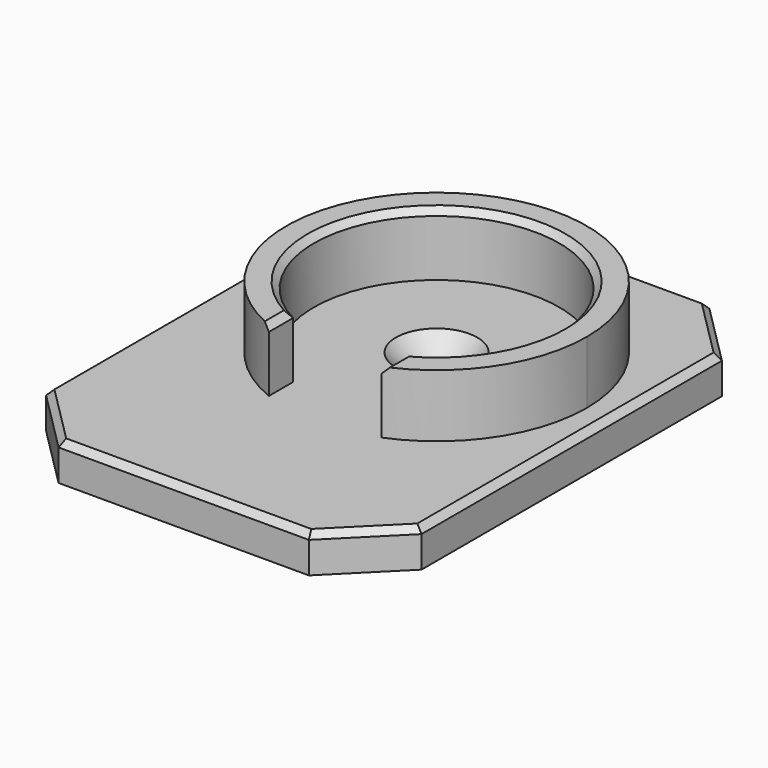
from build123d import *

# Parameters (mm, degrees)
F0_W     = 11.5
F0_H     = 8
F0_W_2   = 9
F0_W_3   = 9.4955122173
F1_DEPTH = 3
F2_DEPTH = 5
F3_SIZE  = 1.6
F4_SIZE  = 5
F5_SIZE  = 0.5


with BuildPart() as f1:
    # F0 (on Top) → F1 (new body)
    with BuildSketch(Plane.XY):
        with BuildLine():
            Line((-4.5, -16), (-4.5, -11.1242977306))
            ThreePointArc((-4.5, -11.1242977306), (-6.7082039325, 9.9498743711), (12, 0))
            ThreePointArc((12, 0), (9.9498743711, -6.7082039325), (4.5, -11.1242977306))
            Line((4.5, -11.1242977306), (4.5, -16))
            Line((4.5, -16), (13.9955122173, -16))
            Line((13.9955122173, -16), (13.9955122173, 16))
            Line((13.9955122173, 16), (-16, 16))
            Line((-16, 16), (-16, -16))
            Line((-16, -16), (-4.5, -16))
        make_face()
        with BuildLine():
            ThreePointArc((-4.5, -8.7057452294), (-5.0960769225, 8.3707825202), (9.8, 0))
            ThreePointArc((9.8, 0), (8.3707825202, -5.0960769225), (4.5, -8.7057452294))
            Line((4.5, -8.7057452294), (4.5, -11.1242977306))
            ThreePointArc((4.5, -11.1242977306), (9.9498743711, -6.7082039325), (12, 0))
            ThreePointArc((12, 0), (-6.7082039325, 9.9498743711), (-4.5, -11.1242977306))
            Line((-4.5, -11.1242977306), (-4.5, -8.7057452294))
        make_face()
        with BuildLine():
            ThreePointArc((4.5, -8.7057452294), (8.3707825202, -5.0960769225), (9.8, 0))
            ThreePointArc((9.8, 0), (-5.0960769225, 8.3707825202), (-4.5, -8.7057452294))
            Line((-4.5, -8.7057452294), (-4.5, 0))
            Line((-4.5, 0), (-1.65, 0))
            ThreePointArc((-1.65, 0), (0, 1.65), (1.65, 0))
            Line((1.65, 0), (4.5, 0))
            Line((4.5, 0), (4.5, -8.7057452294))
        make_face()
        with BuildLine():
            Line((-4.5, 0), (-4.5, -8.7057452294))
            ThreePointArc((-4.5, -8.7057452294), (0, -9.8), (4.5, -8.7057452294))
            Line((4.5, -8.7057452294), (4.5, 0))
            Line((4.5, 0), (1.65, 0))
            ThreePointArc((1.65, 0), (0, -1.65), (-1.65, 0))
            Line((-1.65, 0), (-4.5, 0))
        make_face()
        with BuildLine():
            ThreePointArc((4.5, -8.7057452294), (0, -9.8), (-4.5, -8.7057452294))
            Line((-4.5, -8.7057452294), (-4.5, -11.1242977306))
            ThreePointArc((-4.5, -11.1242977306), (0, -12), (4.5, -11.1242977306))
            Line((4.5, -11.1242977306), (4.5, -8.7057452294))
        make_face()
        with BuildLine():
            ThreePointArc((4.5, -11.1242977306), (0, -12), (-4.5, -11.1242977306))
            Line((-4.5, -11.1242977306), (-4.5, -16))
            Line((-4.5, -16), (4.5, -16))
            Line((4.5, -16), (4.5, -11.1242977306))
        make_face()
        with Locations((-10.25, -20)):
            Rectangle(F0_W, F0_H)
        with Locations((0, -20)):
            Rectangle(F0_W_2, F0_H)
        with Locations((9.2477561086, -20)):
            Rectangle(F0_W_3, F0_H)
    extrude(amount=-F1_DEPTH)

    # F0 (on Top) → F2 (join)
    with BuildSketch(Plane.XY):
        with BuildLine():
            ThreePointArc((-4.5, -8.7057452294), (-5.0960769225, 8.3707825202), (9.8, 0))
            ThreePointArc((9.8, 0), (8.3707825202, -5.0960769225), (4.5, -8.7057452294))
            Line((4.5, -8.7057452294), (4.5, -11.1242977306))
            ThreePointArc((4.5, -11.1242977306), (9.9498743711, -6.7082039325), (12, 0))
            ThreePointArc((12, 0), (-6.7082039325, 9.9498743711), (-4.5, -11.1242977306))
            Line((-4.5, -11.1242977306), (-4.5, -8.7057452294))
        make_face()
    extrude(amount=F2_DEPTH)

    # F3
    f3_edges = [f1.edges().sort_by_distance(p)[0] for p in [
        (-1.65, 0, 0),
    ]]
    chamfer(f3_edges, length=F3_SIZE)

    # F4
    f4_edges = [f1.edges().sort_by_distance(p)[0] for p in [
        (-16, -24, -1.5),
        (13.995512, -24, -1.5),
        (-16, 16, -1.5),
        (13.995512, 16, -1.5),
    ]]
    chamfer(f4_edges, length=F4_SIZE)

    # F5
    f5_edges = [f1.edges().sort_by_distance(p)[0] for p in [
        (-5.096077, 8.370783, 5),
        (-1.002244, -24, 0),
        (11.495512, -21.5, 0),
        (13.995512, -4, 0),
        (-13.5, -21.5, 0),
        (-16, -4, 0),
        (-13.5, 13.5, 0),
        (-1.002244, 16, 0),
        (11.495512, 13.5, 0),
        (-4.5, -9.915021, 5),
        (4.5, -9.915021, 5),
    ]]
    chamfer(f5_edges, length=F5_SIZE)


solid = f1.part
